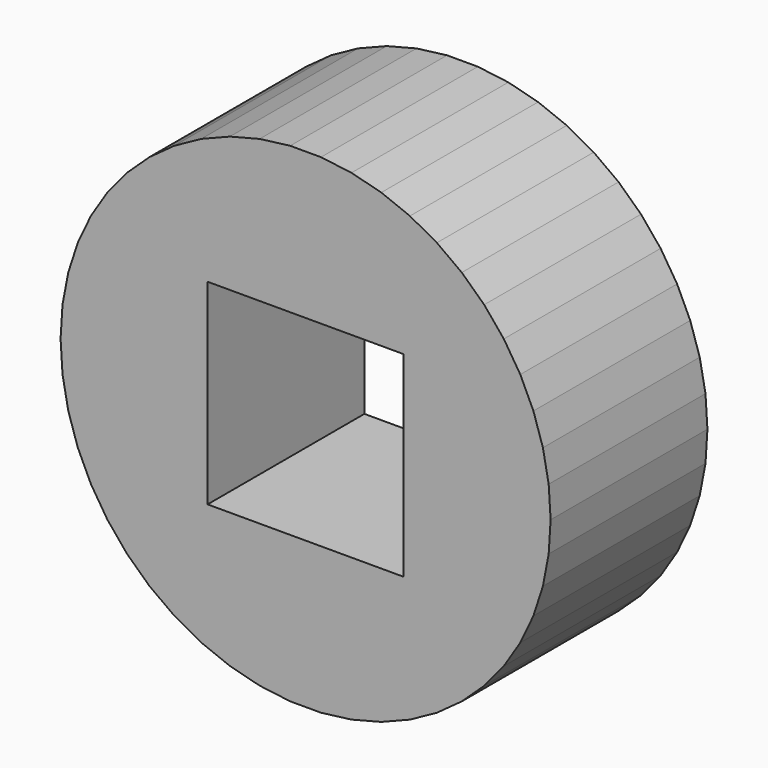
from build123d import *

# Parameters (mm, degrees)
F1_DEPTH = 50.8
F3_DEPTH = 76.2


with BuildPart() as f1:
    # F0 (on Front) → F1 (new body)
    with BuildSketch(Plane.XZ):
        Polygon((3.987198, 63.374697), (-3.987198, 63.374697), (-11.898713, 62.37524), (-19.622579, 60.392089), (-27.036985, 57.456518), (-34.025001, 53.614823), (-40.476423, 48.927591), (-46.289508, 43.468741), (-51.372579, 37.324364), (-55.645474, 30.591358), (-59.040807, 23.375909), (-61.505031, 15.791808), (-62.999284, 7.95866), (-63.5, 0), (-62.999284, -7.95866), (-61.505031, -15.791808), (-59.040807, -23.375909), (-55.645474, -30.591358), (-51.372579, -37.324364), (-46.289508, -43.468741), (-40.476423, -48.927591), (-34.025001, -53.614823), (-27.036985, -57.456518), (-19.622579, -60.392089), (-11.898713, -62.37524), (-3.987198, -63.374697), (3.987198, -63.374697), (11.898713, -62.37524), (19.622579, -60.392089), (27.036985, -57.456518), (34.025001, -53.614823), (40.476423, -48.927591), (46.289508, -43.468741), (51.372579, -37.324364), (55.645474, -30.591358), (59.040807, -23.375909), (61.505031, -15.791808), (62.999284, -7.95866), (63.5, 0), (62.999284, 7.95866), (61.505031, 15.791808), (59.040807, 23.375909), (55.645474, 30.591358), (51.372579, 37.324364), (46.289508, 43.468741), (40.476423, 48.927591), (34.025001, 53.614823), (27.036985, 57.456518), (19.622579, 60.392089), (11.898713, 62.37524), align=None)
    extrude(amount=F1_DEPTH)

    # F2 (on face) → F3 (cut)
    with BuildSketch(Plane.XZ.offset(50.8)):
        Polygon((25.4, 25.4), (0, 25.4), (-25.4, 25.4), (-25.4, 0), (-25.4, -25.4), (0, -25.4), (25.4, -25.4), (25.4, 0), align=None)
    extrude(amount=-F3_DEPTH, mode=Mode.SUBTRACT)


solid = f1.part
